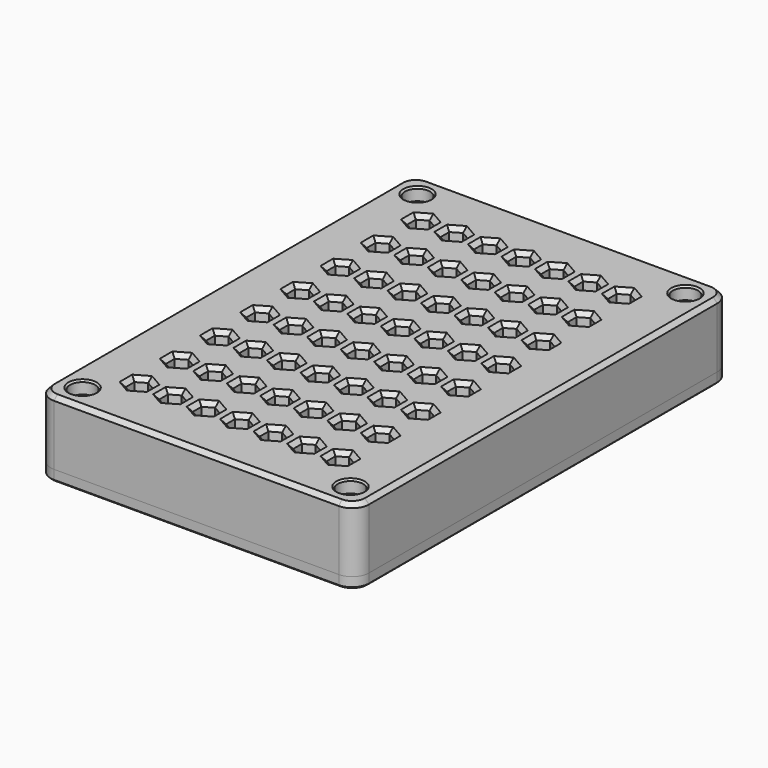
from build123d import *

# Parameters (mm, degrees)
SKETCH001_W                        = 70
SKETCH001_H                        = 20
PAD001_DEPTH                       = 5
SKETCH002_W                        = 61
SKETCH002_H                        = 11
POCKET_DEPTH                       = 3
SKETCH003_W                        = 70
SKETCH003_H                        = 20
PAD002_DEPTH                       = 6
POCKET001_DEPTH                    = 5
FILLET001_R                        = 1
CHAMFER001_SIZE                    = 1
SKETCH_W                           = 76
SKETCH_H                           = 112
PAD_DEPTH                          = 3
SKETCH005_W                        = 60
SKETCH005_H                        = 10
POCKET002_DEPTH                    = 3
LINEARPATTERN_COUNT                = 8
LINEARPATTERN_PITCH                = 12
SKETCH006_W                        = 76
SKETCH006_H                        = 112
PAD003_DEPTH                       = 15
POCKET003_DEPTH                    = 14.4
POCKET003_LINEARPATTERN001_2_DEPTH = 14.4
POCKET003_LINEARPATTERN001_3_DEPTH = 14.4
POCKET003_LINEARPATTERN001_4_DEPTH = 14.4
POCKET003_LINEARPATTERN001_5_DEPTH = 14.4
POCKET003_LINEARPATTERN001_6_DEPTH = 14.4
POCKET003_LINEARPATTERN001_7_DEPTH = 14.4
POCKET003_LINEARPATTERN001_8_DEPTH = 14.4
LINEARPATTERN002_COUNT             = 7
LINEARPATTERN002_PITCH             = 8
SKETCH008_R                        = 1.3
POCKET004_DEPTH                    = 12
FILLET_R                           = 4
CHAMFER_SIZE                       = 1
CHAMFER002_SIZE                    = 0.4
SKETCH010_R                        = 3
POCKET005_DEPTH                    = 3
CHAMFER003_SIZE                    = 0.4
SKETCH011_W                        = 76
SKETCH011_H                        = 112
PAD004_DEPTH                       = 3
SKETCH012_R                        = 1.7
POCKET006_DEPTH                    = 5
CHAMFER004_SIZE                    = 1.4
FILLET002_R                        = 4
CHAMFER005_SIZE                    = 0.4


with BuildPart() as body001:
    # Sketch001 → Pad001 (new body)
    with BuildSketch(Plane.XY):
        Rectangle(SKETCH001_W, SKETCH001_H)
    extrude(amount=PAD001_DEPTH)

    # Sketch002 (on Face6 of Pad001) → Pocket (cut)
    with BuildSketch(Plane.XY.offset(5)):
        Rectangle(SKETCH002_W, SKETCH002_H)
    extrude(amount=-POCKET_DEPTH, mode=Mode.SUBTRACT)

    # Sketch003 (on Face5 of Pocket) → Pad002 (join)
    with BuildSketch(Plane.XY.offset(5)):
        Rectangle(SKETCH003_W, SKETCH003_H)
    extrude(amount=PAD002_DEPTH)

    # Sketch004 (on Face9 of Pad002) → Pocket001 (cut)
    with BuildSketch(Plane.XY.offset(11)):
        Polygon((-11.990767, -2.59806), (-9.745398, -1.291034), (-9.754631, 1.307026), (-12.009233, 2.59806), (-14.254602, 1.291034), (-14.245369, -1.307026), align=None)
        Polygon((-3.993066, -2.598067), (-1.746541, -1.293028), (-1.753475, 1.305039), (-4.006934, 2.598067), (-6.253459, 1.293028), (-6.246525, -1.305039), align=None)
        Polygon((4, -2.598076), (6.25, -1.299038), (6.25, 1.299038), (4, 2.598076), (1.75, 1.299038), (1.75, -1.299038), align=None)
        Polygon((12.10465, -2.595968), (14.300499, -1.207354), (14.195849, 1.388614), (11.89535, 2.595968), (9.699501, 1.207354), (9.804151, -1.388614), align=None)
    extrude(amount=-POCKET001_DEPTH, mode=Mode.SUBTRACT)

    # Fillet001
    fillet001_edges = [body001.edges().sort_by_distance(p)[0] for p in [
        (-35, 0, 11),
        (0, 10, 11),
        (0, -10, 11),
        (35, 0, 11),
        (-10.868082, -1.944547, 11),
        (-9.750014, 0.007996, 11),
        (-10.881932, 1.952543, 11),
        (-13.131918, 1.944547, 11),
        (-14.249986, -0.007996, 11),
        (-13.118068, -1.952543, 11),
        (-2.869803, -1.945548, 11),
        (-1.750008, 0.006005, 11),
        (-2.880205, 1.951553, 11),
        (-5.130197, 1.945548, 11),
        (-6.249992, -0.006005, 11),
        (-5.119795, -1.951553, 11),
        (5.125, -1.948557, 11),
        (6.25, 0, 11),
        (5.125, 1.948557, 11),
        (2.875, 1.948557, 11),
        (1.75, 0, 11),
        (2.875, -1.948557, 11),
        (13.202575, -1.901661, 11),
        (14.248174, 0.09063, 11),
        (13.045599, 1.992291, 11),
        (10.797425, 1.901661, 11),
        (9.751826, -0.09063, 11),
        (10.954401, -1.992291, 11),
    ]]
    fillet(fillet001_edges, radius=FILLET001_R)

    # Chamfer001
    chamfer001_edges = [body001.edges().sort_by_distance(p)[0] for p in [
        (-35, 0, 0),
        (0, -10, 0),
        (35, 0, 0),
        (0, 10, 0),
    ]]
    chamfer(chamfer001_edges, length=CHAMFER001_SIZE)


with BuildPart() as body002:
    # Sketch → Pad (new body)
    with BuildSketch(Plane.XY):
        Rectangle(SKETCH_W, SKETCH_H)
    extrude(amount=PAD_DEPTH)

    # Sketch005 → Pocket002 (cut)
    with BuildSketch(Plane.XY.offset(3)):
        with Locations((0, -42)):
            Rectangle(SKETCH005_W, SKETCH005_H)
    pocket002 = extrude(amount=-POCKET002_DEPTH, mode=Mode.SUBTRACT)

    # LinearPattern: Pocket002 ×8
    with Locations(*[(0, i * LINEARPATTERN_PITCH, 0) for i in range(1, LINEARPATTERN_COUNT)]):
        add(pocket002, mode=Mode.SUBTRACT)

    # Sketch006 → Pad003 (join)
    with BuildSketch(Plane.XY.offset(3)):
        Rectangle(SKETCH006_W, SKETCH006_H)
    extrude(amount=PAD003_DEPTH)

    # Sketch007 → Pocket003 (cut)
    with BuildSketch(Plane.XY.offset(18)):
        Polygon((-22.553848, -43.299038), (-22.553848, -40.700962), (-24.803848, -39.401924), (-27.053848, -40.700962), (-27.053848, -43.299038), (-24.803848, -44.598076), align=None)
    pocket003 = extrude(amount=-POCKET003_DEPTH, mode=Mode.SUBTRACT)

    # Sketch007 LinearPattern001 2 → Pocket003 LinearPattern001 2 (cut)
    with BuildSketch(Plane(origin=(0, 12, 18), x_dir=(1, 0, 0), z_dir=(0, 0, 1))):
        Polygon((-22.553848, -43.299038), (-22.553848, -40.700962), (-24.803848, -39.401924), (-27.053848, -40.700962), (-27.053848, -43.299038), (-24.803848, -44.598076), align=None)
    pocket003_linearpattern001_2 = extrude(amount=-POCKET003_LINEARPATTERN001_2_DEPTH, mode=Mode.SUBTRACT)

    # Sketch007 LinearPattern001 3 → Pocket003 LinearPattern001 3 (cut)
    with BuildSketch(Plane(origin=(0, 24, 18), x_dir=(1, 0, 0), z_dir=(0, 0, 1))):
        Polygon((-22.553848, -43.299038), (-22.553848, -40.700962), (-24.803848, -39.401924), (-27.053848, -40.700962), (-27.053848, -43.299038), (-24.803848, -44.598076), align=None)
    pocket003_linearpattern001_3 = extrude(amount=-POCKET003_LINEARPATTERN001_3_DEPTH, mode=Mode.SUBTRACT)

    # Sketch007 LinearPattern001 4 → Pocket003 LinearPattern001 4 (cut)
    with BuildSketch(Plane(origin=(0, 36, 18), x_dir=(1, 0, 0), z_dir=(0, 0, 1))):
        Polygon((-22.553848, -43.299038), (-22.553848, -40.700962), (-24.803848, -39.401924), (-27.053848, -40.700962), (-27.053848, -43.299038), (-24.803848, -44.598076), align=None)
    pocket003_linearpattern001_4 = extrude(amount=-POCKET003_LINEARPATTERN001_4_DEPTH, mode=Mode.SUBTRACT)

    # Sketch007 LinearPattern001 5 → Pocket003 LinearPattern001 5 (cut)
    with BuildSketch(Plane(origin=(0, 48, 18), x_dir=(1, 0, 0), z_dir=(0, 0, 1))):
        Polygon((-22.553848, -43.299038), (-22.553848, -40.700962), (-24.803848, -39.401924), (-27.053848, -40.700962), (-27.053848, -43.299038), (-24.803848, -44.598076), align=None)
    pocket003_linearpattern001_5 = extrude(amount=-POCKET003_LINEARPATTERN001_5_DEPTH, mode=Mode.SUBTRACT)

    # Sketch007 LinearPattern001 6 → Pocket003 LinearPattern001 6 (cut)
    with BuildSketch(Plane(origin=(0, 60, 18), x_dir=(1, 0, 0), z_dir=(0, 0, 1))):
        Polygon((-22.553848, -43.299038), (-22.553848, -40.700962), (-24.803848, -39.401924), (-27.053848, -40.700962), (-27.053848, -43.299038), (-24.803848, -44.598076), align=None)
    pocket003_linearpattern001_6 = extrude(amount=-POCKET003_LINEARPATTERN001_6_DEPTH, mode=Mode.SUBTRACT)

    # Sketch007 LinearPattern001 7 → Pocket003 LinearPattern001 7 (cut)
    with BuildSketch(Plane(origin=(0, 72, 18), x_dir=(1, 0, 0), z_dir=(0, 0, 1))):
        Polygon((-22.553848, -43.299038), (-22.553848, -40.700962), (-24.803848, -39.401924), (-27.053848, -40.700962), (-27.053848, -43.299038), (-24.803848, -44.598076), align=None)
    pocket003_linearpattern001_7 = extrude(amount=-POCKET003_LINEARPATTERN001_7_DEPTH, mode=Mode.SUBTRACT)

    # Sketch007 LinearPattern001 8 → Pocket003 LinearPattern001 8 (cut)
    with BuildSketch(Plane(origin=(0, 84, 18), x_dir=(1, 0, 0), z_dir=(0, 0, 1))):
        Polygon((-22.553848, -43.299038), (-22.553848, -40.700962), (-24.803848, -39.401924), (-27.053848, -40.700962), (-27.053848, -43.299038), (-24.803848, -44.598076), align=None)
    pocket003_linearpattern001_8 = extrude(amount=-POCKET003_LINEARPATTERN001_8_DEPTH, mode=Mode.SUBTRACT)

    # LinearPattern002: Pocket003, Pocket003 LinearPattern001 2, Pocket003 LinearPattern001 3, Pocket003 LinearPattern001 4, Pocket003 LinearPattern001 5, Pocket003 LinearPattern001 6, Pocket003 LinearPattern001 7, Pocket003 LinearPattern001 8 ×7
    with Locations(*[(i * LINEARPATTERN002_PITCH, 0, 0) for i in range(1, LINEARPATTERN002_COUNT)]):
        add(pocket003, mode=Mode.SUBTRACT)
        add(pocket003_linearpattern001_2, mode=Mode.SUBTRACT)
        add(pocket003_linearpattern001_3, mode=Mode.SUBTRACT)
        add(pocket003_linearpattern001_4, mode=Mode.SUBTRACT)
        add(pocket003_linearpattern001_5, mode=Mode.SUBTRACT)
        add(pocket003_linearpattern001_6, mode=Mode.SUBTRACT)
        add(pocket003_linearpattern001_7, mode=Mode.SUBTRACT)
        add(pocket003_linearpattern001_8, mode=Mode.SUBTRACT)

    # Sketch008 → Pocket004 (cut)
    with BuildSketch(Plane(origin=(0, 0, 0), x_dir=(1, 0, 0), z_dir=(0, 0, -1))):
        with Locations((32, -50)):
            Circle(SKETCH008_R)
        with Locations((32, 50)):
            Circle(SKETCH008_R)
        with Locations((-32, 50)):
            Circle(SKETCH008_R)
        with Locations((-32, -50)):
            Circle(SKETCH008_R)
    extrude(amount=-POCKET004_DEPTH, mode=Mode.SUBTRACT)

    # Fillet
    fillet_edges = [body002.edges().sort_by_distance(p)[0] for p in [
        (-38, 56, 9),
        (38, 56, 9),
        (38, -56, 9),
        (-38, -56, 9),
    ]]
    fillet(fillet_edges, radius=FILLET_R)

    # Chamfer
    chamfer_edges = [body002.edges().sort_by_distance(p)[0] for p in [
        (-38, 0, 18),
        (-36.828427, 54.828427, 18),
        (-36.828427, -54.828427, 18),
        (0, 56, 18),
        (0, -56, 18),
        (36.828427, 54.828427, 18),
        (36.828427, -54.828427, 18),
        (38, 0, 18),
        (-22.553848, -42, 18),
        (-23.678848, -43.948557, 18),
        (-23.678848, -40.051443, 18),
        (-25.928848, -43.948557, 18),
        (-25.928848, -40.051443, 18),
        (-27.053848, -42, 18),
        (-14.553848, -42, 18),
        (-15.678848, -40.051443, 18),
        (-17.928848, -40.051443, 18),
        (-19.053848, -42, 18),
        (-17.928848, -43.948557, 18),
        (-15.678848, -43.948557, 18),
        (-22.553848, -30, 18),
        (-23.678848, -28.051443, 18),
        (-25.928848, -28.051443, 18),
        (-27.053848, -30, 18),
        (-25.928848, -31.948557, 18),
        (-23.678848, -31.948557, 18),
        (-14.553848, -30, 18),
        (-15.678848, -28.051443, 18),
        (-17.928848, -28.051443, 18),
        (-19.053848, -30, 18),
        (-17.928848, -31.948557, 18),
        (-15.678848, -31.948557, 18),
        (-6.553848, -42, 18),
        (-7.678848, -40.051443, 18),
        (-9.928848, -40.051443, 18),
        (-11.053848, -42, 18),
        (-9.928848, -43.948557, 18),
        (-7.678848, -43.948557, 18),
        (1.446152, -42, 18),
        (0.321152, -40.051443, 18),
        (-1.928848, -40.051443, 18),
        (-3.053848, -42, 18),
        (-1.928848, -43.948557, 18),
        (0.321152, -43.948557, 18),
        (-6.553848, -30, 18),
        (-7.678848, -28.051443, 18),
        (-9.928848, -28.051443, 18),
        (-11.053848, -30, 18),
        (-9.928848, -31.948557, 18),
        (-7.678848, -31.948557, 18),
        (1.446152, -30, 18),
        (0.321152, -28.051443, 18),
        (-1.928848, -28.051443, 18),
        (-3.053848, -30, 18),
        (-1.928848, -31.948557, 18),
        (0.321152, -31.948557, 18),
        (-22.553848, -18, 18),
        (-23.678848, -16.051443, 18),
        (-25.928848, -16.051443, 18),
        (-27.053848, -18, 18),
        (-25.928848, -19.948557, 18),
        (-23.678848, -19.948557, 18),
        (-14.553848, -18, 18),
        (-15.678848, -16.051443, 18),
        (-17.928848, -16.051443, 18),
        (-19.053848, -18, 18),
        (-17.928848, -19.948557, 18),
        (-15.678848, -19.948557, 18),
        (-22.553848, -6, 18),
        (-23.678848, -4.051443, 18),
        (-25.928848, -4.051443, 18),
        (-27.053848, -6, 18),
        (-25.928848, -7.948557, 18),
        (-23.678848, -7.948557, 18),
        (-14.553848, -6, 18),
        (-15.678848, -4.051443, 18),
        (-17.928848, -4.051443, 18),
        (-19.053848, -6, 18),
        (-17.928848, -7.948557, 18),
        (-15.678848, -7.948557, 18),
        (-6.553848, -18, 18),
        (-7.678848, -16.051443, 18),
        (-9.928848, -16.051443, 18),
        (-11.053848, -18, 18),
        (-9.928848, -19.948557, 18),
        (-7.678848, -19.948557, 18),
        (1.446152, -18, 18),
        (0.321152, -16.051443, 18),
        (-1.928848, -16.051443, 18),
        (-3.053848, -18, 18),
        (-1.928848, -19.948557, 18),
        (0.321152, -19.948557, 18),
        (-6.553848, -6, 18),
        (-7.678848, -4.051443, 18),
        (-9.928848, -4.051443, 18),
        (-11.053848, -6, 18),
        (-9.928848, -7.948557, 18),
        (-7.678848, -7.948557, 18),
        (1.446152, -6, 18),
        (0.321152, -4.051443, 18),
        (-1.928848, -4.051443, 18),
        (-3.053848, -6, 18),
        (-1.928848, -7.948557, 18),
        (0.321152, -7.948557, 18),
        (9.446152, -42, 18),
        (8.321152, -40.051443, 18),
        (6.071152, -40.051443, 18),
        (4.946152, -42, 18),
        (6.071152, -43.948557, 18),
        (8.321152, -43.948557, 18),
        (9.446152, -30, 18),
        (8.321152, -28.051443, 18),
        (6.071152, -28.051443, 18),
        (4.946152, -30, 18),
        (6.071152, -31.948557, 18),
        (8.321152, -31.948557, 18),
        (17.446152, -42, 18),
        (16.321152, -40.051443, 18),
        (14.071152, -40.051443, 18),
        (12.946152, -42, 18),
        (14.071152, -43.948557, 18),
        (16.321152, -43.948557, 18),
        (25.446152, -42, 18),
        (24.321152, -40.051443, 18),
        (22.071152, -40.051443, 18),
        (20.946152, -42, 18),
        (22.071152, -43.948557, 18),
        (24.321152, -43.948557, 18),
        (17.446152, -30, 18),
        (16.321152, -28.051443, 18),
        (14.071152, -28.051443, 18),
        (12.946152, -30, 18),
        (14.071152, -31.948557, 18),
        (16.321152, -31.948557, 18),
        (25.446152, -30, 18),
        (24.321152, -28.051443, 18),
        (22.071152, -28.051443, 18),
        (20.946152, -30, 18),
        (22.071152, -31.948557, 18),
        (24.321152, -31.948557, 18),
        (9.446152, -18, 18),
        (8.321152, -16.051443, 18),
        (6.071152, -16.051443, 18),
        (4.946152, -18, 18),
        (6.071152, -19.948557, 18),
        (8.321152, -19.948557, 18),
        (9.446152, -6, 18),
        (8.321152, -4.051443, 18),
        (6.071152, -4.051443, 18),
        (4.946152, -6, 18),
        (6.071152, -7.948557, 18),
        (8.321152, -7.948557, 18),
        (17.446152, -18, 18),
        (16.321152, -16.051443, 18),
        (14.071152, -16.051443, 18),
        (12.946152, -18, 18),
        (14.071152, -19.948557, 18),
        (16.321152, -19.948557, 18),
        (25.446152, -18, 18),
        (24.321152, -16.051443, 18),
        (22.071152, -16.051443, 18),
        (20.946152, -18, 18),
        (22.071152, -19.948557, 18),
        (24.321152, -19.948557, 18),
        (17.446152, -6, 18),
        (16.321152, -4.051443, 18),
        (14.071152, -4.051443, 18),
        (12.946152, -6, 18),
        (14.071152, -7.948557, 18),
        (16.321152, -7.948557, 18),
        (25.446152, -6, 18),
        (24.321152, -4.051443, 18),
        (22.071152, -4.051443, 18),
        (20.946152, -6, 18),
        (22.071152, -7.948557, 18),
        (24.321152, -7.948557, 18),
        (-22.553848, 6, 18),
        (-23.678848, 7.948557, 18),
        (-25.928848, 7.948557, 18),
        (-27.053848, 6, 18),
        (-25.928848, 4.051443, 18),
        (-23.678848, 4.051443, 18),
        (-14.553848, 6, 18),
        (-15.678848, 7.948557, 18),
        (-17.928848, 7.948557, 18),
        (-19.053848, 6, 18),
        (-17.928848, 4.051443, 18),
        (-15.678848, 4.051443, 18),
        (-22.553848, 18, 18),
        (-23.678848, 19.948557, 18),
        (-25.928848, 19.948557, 18),
        (-27.053848, 18, 18),
        (-25.928848, 16.051443, 18),
        (-23.678848, 16.051443, 18),
        (-14.553848, 18, 18),
        (-15.678848, 19.948557, 18),
        (-17.928848, 19.948557, 18),
        (-19.053848, 18, 18),
        (-17.928848, 16.051443, 18),
        (-15.678848, 16.051443, 18),
        (-6.553848, 6, 18),
        (-7.678848, 7.948557, 18),
        (-9.928848, 7.948557, 18),
        (-11.053848, 6, 18),
        (-9.928848, 4.051443, 18),
        (-7.678848, 4.051443, 18),
        (-6.553848, 18, 18),
        (-7.678848, 19.948557, 18),
        (-9.928848, 19.948557, 18),
        (-11.053848, 18, 18),
        (-9.928848, 16.051443, 18),
        (-7.678848, 16.051443, 18),
        (-22.553848, 30, 18),
        (-23.678848, 31.948557, 18),
        (-25.928848, 31.948557, 18),
        (-27.053848, 30, 18),
        (-25.928848, 28.051443, 18),
        (-23.678848, 28.051443, 18),
        (-14.553848, 30, 18),
        (-15.678848, 31.948557, 18),
        (-17.928848, 31.948557, 18),
        (-19.053848, 30, 18),
        (-17.928848, 28.051443, 18),
        (-15.678848, 28.051443, 18),
        (-22.553848, 42, 18),
        (-23.678848, 43.948557, 18),
        (-25.928848, 43.948557, 18),
        (-27.053848, 42, 18),
        (-25.928848, 40.051443, 18),
        (-23.678848, 40.051443, 18),
        (-14.553848, 42, 18),
        (-15.678848, 43.948557, 18),
        (-17.928848, 43.948557, 18),
        (-19.053848, 42, 18),
        (-17.928848, 40.051443, 18),
        (-15.678848, 40.051443, 18),
        (-6.553848, 30, 18),
        (-7.678848, 31.948557, 18),
        (-9.928848, 31.948557, 18),
        (-11.053848, 30, 18),
        (-9.928848, 28.051443, 18),
        (-7.678848, 28.051443, 18),
        (-6.553848, 42, 18),
        (-7.678848, 43.948557, 18),
        (-9.928848, 43.948557, 18),
        (-11.053848, 42, 18),
        (-9.928848, 40.051443, 18),
        (-7.678848, 40.051443, 18),
        (1.446152, 6, 18),
        (0.321152, 7.948557, 18),
        (-1.928848, 7.948557, 18),
        (-3.053848, 6, 18),
        (-1.928848, 4.051443, 18),
        (0.321152, 4.051443, 18),
        (9.446152, 6, 18),
        (8.321152, 7.948557, 18),
        (6.071152, 7.948557, 18),
        (4.946152, 6, 18),
        (6.071152, 4.051443, 18),
        (8.321152, 4.051443, 18),
        (1.446152, 18, 18),
        (0.321152, 19.948557, 18),
        (-1.928848, 19.948557, 18),
        (-3.053848, 18, 18),
        (-1.928848, 16.051443, 18),
        (0.321152, 16.051443, 18),
        (9.446152, 18, 18),
        (8.321152, 19.948557, 18),
        (6.071152, 19.948557, 18),
        (4.946152, 18, 18),
        (6.071152, 16.051443, 18),
        (8.321152, 16.051443, 18),
        (17.446152, 6, 18),
        (16.321152, 7.948557, 18),
        (14.071152, 7.948557, 18),
        (12.946152, 6, 18),
        (14.071152, 4.051443, 18),
        (16.321152, 4.051443, 18),
        (25.446152, 6, 18),
        (24.321152, 7.948557, 18),
        (22.071152, 7.948557, 18),
        (20.946152, 6, 18),
        (22.071152, 4.051443, 18),
        (24.321152, 4.051443, 18),
        (17.446152, 18, 18),
        (16.321152, 19.948557, 18),
        (14.071152, 19.948557, 18),
        (12.946152, 18, 18),
        (14.071152, 16.051443, 18),
        (16.321152, 16.051443, 18),
        (25.446152, 18, 18),
        (24.321152, 19.948557, 18),
        (22.071152, 19.948557, 18),
        (20.946152, 18, 18),
        (22.071152, 16.051443, 18),
        (24.321152, 16.051443, 18),
        (1.446152, 30, 18),
        (0.321152, 31.948557, 18),
        (-1.928848, 31.948557, 18),
        (-3.053848, 30, 18),
        (-1.928848, 28.051443, 18),
        (0.321152, 28.051443, 18),
        (9.446152, 30, 18),
        (8.321152, 31.948557, 18),
        (6.071152, 31.948557, 18),
        (4.946152, 30, 18),
        (6.071152, 28.051443, 18),
        (8.321152, 28.051443, 18),
        (1.446152, 42, 18),
        (0.321152, 43.948557, 18),
        (-1.928848, 43.948557, 18),
        (-3.053848, 42, 18),
        (-1.928848, 40.051443, 18),
        (0.321152, 40.051443, 18),
        (9.446152, 42, 18),
        (8.321152, 43.948557, 18),
        (6.071152, 43.948557, 18),
        (4.946152, 42, 18),
        (6.071152, 40.051443, 18),
        (8.321152, 40.051443, 18),
        (17.446152, 30, 18),
        (16.321152, 31.948557, 18),
        (14.071152, 31.948557, 18),
        (12.946152, 30, 18),
        (14.071152, 28.051443, 18),
        (16.321152, 28.051443, 18),
        (25.446152, 30, 18),
        (24.321152, 31.948557, 18),
        (22.071152, 31.948557, 18),
        (20.946152, 30, 18),
        (22.071152, 28.051443, 18),
        (24.321152, 28.051443, 18),
        (17.446152, 42, 18),
        (16.321152, 43.948557, 18),
        (14.071152, 43.948557, 18),
        (12.946152, 42, 18),
        (14.071152, 40.051443, 18),
        (16.321152, 40.051443, 18),
        (25.446152, 42, 18),
        (24.321152, 43.948557, 18),
        (22.071152, 43.948557, 18),
        (20.946152, 42, 18),
        (22.071152, 40.051443, 18),
        (24.321152, 40.051443, 18),
    ]]
    chamfer(chamfer_edges, length=CHAMFER_SIZE)

    # Chamfer002
    chamfer002_edges = [body002.edges().sort_by_distance(p)[0] for p in [
        (-38, 0, 0),
        (-36.828427, 54.828427, 0),
        (-36.828427, -54.828427, 0),
        (0, 56, 0),
        (0, -56, 0),
        (36.828427, 54.828427, 0),
        (36.828427, -54.828427, 0),
        (38, 0, 0),
        (-33.3, -50, 0),
        (-30, -42, 0),
        (0, -37, 0),
        (0, -47, 0),
        (30, -42, 0),
        (-30, -30, 0),
        (0, -25, 0),
        (0, -35, 0),
        (30, -30, 0),
        (30.7, -50, 0),
        (-30, -18, 0),
        (0, -13, 0),
        (0, -23, 0),
        (30, -18, 0),
        (-30, -6, 0),
        (0, -1, 0),
        (0, -11, 0),
        (30, -6, 0),
        (-33.3, 50, 0),
        (-30, 6, 0),
        (0, 11, 0),
        (0, 1, 0),
        (30, 6, 0),
        (-30, 18, 0),
        (0, 23, 0),
        (0, 13, 0),
        (30, 18, 0),
        (-30, 30, 0),
        (0, 35, 0),
        (0, 25, 0),
        (30, 30, 0),
        (-30, 42, 0),
        (0, 47, 0),
        (0, 37, 0),
        (30, 42, 0),
        (30.7, 50, 0),
    ]]
    chamfer(chamfer002_edges, length=CHAMFER002_SIZE)

    # Sketch010 → Pocket005 (cut)
    with BuildSketch(Plane.XY.offset(18)):
        with Locations((32, -50)):
            Circle(SKETCH010_R)
        with Locations((32, 50)):
            Circle(SKETCH010_R)
        with Locations((-32, 50)):
            Circle(SKETCH010_R)
        with Locations((-32, -50)):
            Circle(SKETCH010_R)
    extrude(amount=-POCKET005_DEPTH, mode=Mode.SUBTRACT)

    # Chamfer003
    chamfer003_edges = [body002.edges().sort_by_distance(p)[0] for p in [
        (-35, 50, 18),
        (29, 50, 18),
        (29, -50, 18),
        (-35, -50, 18),
    ]]
    chamfer(chamfer003_edges, length=CHAMFER003_SIZE)


with BuildPart() as body:
    # Sketch011 → Pad004 (new body)
    with BuildSketch(Plane.XY):
        Rectangle(SKETCH011_W, SKETCH011_H)
    extrude(amount=PAD004_DEPTH)

    # Sketch012 → Pocket006 (cut)
    with BuildSketch(Plane(origin=(0, 0, 0), x_dir=(1, 0, 0), z_dir=(0, 0, -1))):
        with Locations((32, -50)):
            Circle(SKETCH012_R)
        with Locations((32, 50)):
            Circle(SKETCH012_R)
        with Locations((-32, 50)):
            Circle(SKETCH012_R)
        with Locations((-32, -50)):
            Circle(SKETCH012_R)
    extrude(amount=-POCKET006_DEPTH, mode=Mode.SUBTRACT)

    # Chamfer004
    chamfer004_edges = [body.edges().sort_by_distance(p)[0] for p in [
        (30.3, -50, 3),
        (-33.7, 50, 3),
        (-33.7, -50, 3),
        (30.3, 50, 3),
    ]]
    chamfer(chamfer004_edges, length=CHAMFER004_SIZE)

    # Fillet002
    fillet002_edges = [body.edges().sort_by_distance(p)[0] for p in [
        (-38, 56, 1.5),
        (38, 56, 1.5),
        (38, -56, 1.5),
        (-38, -56, 1.5),
    ]]
    fillet(fillet002_edges, radius=FILLET002_R)

    # Chamfer005
    chamfer005_edges = [body.edges().sort_by_distance(p)[0] for p in [
        (0, -56, 3),
        (0, -56, 0),
    ]]
    chamfer(chamfer005_edges, length=CHAMFER005_SIZE)


solid = Compound([body001.part, body002.part, body.part])
